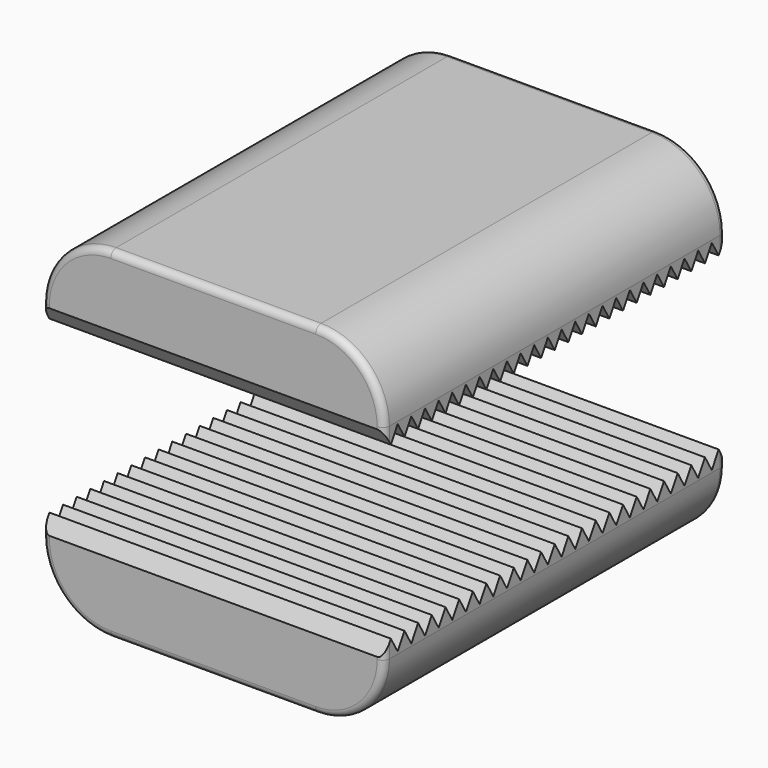
from build123d import *

# Parameters (mm, degrees)
F0_W     = 25.4
F0_H     = 6.35
F1_DEPTH = 15.875
F3_DEPTH = 12.7
F4_R     = 5.08
F5_R     = 0.508


with BuildPart() as f1:
    # F0 (on Front) → F1 (new body, symmetric)
    with BuildSketch(Plane.XZ):
        with Locations((0, -9.525)):
            Rectangle(F0_W, F0_H)
        with Locations((0, 9.525)):
            Rectangle(F0_W, F0_H)
    extrude(amount=F1_DEPTH, both=True)

    # F2 (on Right) → F3 (cut, symmetric)
    with BuildSketch(Plane.YZ):
        Polygon((-1.27, 6.35), (0, 6.35), (-0.635, 7.449852), align=None)
        Polygon((29.845, 7.449852), (29.21, 6.35), (30.48, 6.35), align=None)
        Polygon((28.575, 7.449852), (27.94, 6.35), (29.21, 6.35), align=None)
        Polygon((27.305, 7.449852), (26.67, 6.35), (27.94, 6.35), align=None)
        Polygon((26.035, 7.449852), (25.4, 6.35), (26.67, 6.35), align=None)
        Polygon((24.765, 7.449852), (24.13, 6.35), (25.4, 6.35), align=None)
        Polygon((23.495, 7.449852), (22.86, 6.35), (24.13, 6.35), align=None)
        Polygon((22.225, 7.449852), (21.59, 6.35), (22.86, 6.35), align=None)
        Polygon((20.955, 7.449852), (20.32, 6.35), (21.59, 6.35), align=None)
        Polygon((19.685, 7.449852), (19.05, 6.35), (20.32, 6.35), align=None)
        Polygon((18.415, 7.449852), (17.78, 6.35), (19.05, 6.35), align=None)
        Polygon((17.145, 7.449852), (16.51, 6.35), (17.78, 6.35), align=None)
        Polygon((15.875, 7.449852), (15.24, 6.35), (16.51, 6.35), align=None)
        Polygon((14.605, 7.449852), (13.97, 6.35), (15.24, 6.35), align=None)
        Polygon((13.335, 7.449852), (12.7, 6.35), (13.97, 6.35), align=None)
        Polygon((12.065, 7.449852), (11.43, 6.35), (12.7, 6.35), align=None)
        Polygon((10.795, 7.449852), (10.16, 6.35), (11.43, 6.35), align=None)
        Polygon((9.525, 7.449852), (8.89, 6.35), (10.16, 6.35), align=None)
        Polygon((8.255, 7.449852), (7.62, 6.35), (8.89, 6.35), align=None)
        Polygon((6.985, 7.449852), (6.35, 6.35), (7.62, 6.35), align=None)
        Polygon((5.715, 7.449852), (5.08, 6.35), (6.35, 6.35), align=None)
        Polygon((4.445, 7.449852), (3.81, 6.35), (5.08, 6.35), align=None)
        Polygon((3.175, 7.449852), (2.54, 6.35), (3.81, 6.35), align=None)
        Polygon((1.905, 7.449852), (1.27, 6.35), (2.54, 6.35), align=None)
        Polygon((-30.48, 6.35), (-29.21, 6.35), (-29.845, 7.449852), align=None)
        Polygon((-29.21, 6.35), (-27.94, 6.35), (-28.575, 7.449852), align=None)
        Polygon((-27.94, 6.35), (-26.67, 6.35), (-27.305, 7.449852), align=None)
        Polygon((-26.67, 6.35), (-25.4, 6.35), (-26.035, 7.449852), align=None)
        Polygon((-25.4, 6.35), (-24.13, 6.35), (-24.765, 7.449852), align=None)
        Polygon((-24.13, 6.35), (-22.86, 6.35), (-23.495, 7.449852), align=None)
        Polygon((-22.86, 6.35), (-21.59, 6.35), (-22.225, 7.449852), align=None)
        Polygon((-21.59, 6.35), (-20.32, 6.35), (-20.955, 7.449852), align=None)
        Polygon((-20.32, 6.35), (-19.05, 6.35), (-19.685, 7.449852), align=None)
        Polygon((-19.05, 6.35), (-17.78, 6.35), (-18.415, 7.449852), align=None)
        Polygon((-17.78, 6.35), (-16.51, 6.35), (-17.145, 7.449852), align=None)
        Polygon((-16.51, 6.35), (-15.24, 6.35), (-15.875, 7.449852), align=None)
        Polygon((-15.24, 6.35), (-13.97, 6.35), (-14.605, 7.449852), align=None)
        Polygon((-13.97, 6.35), (-12.7, 6.35), (-13.335, 7.449852), align=None)
        Polygon((-12.7, 6.35), (-11.43, 6.35), (-12.065, 7.449852), align=None)
        Polygon((-11.43, 6.35), (-10.16, 6.35), (-10.795, 7.449852), align=None)
        Polygon((-10.16, 6.35), (-8.89, 6.35), (-9.525, 7.449852), align=None)
        Polygon((-8.89, 6.35), (-7.62, 6.35), (-8.255, 7.449852), align=None)
        Polygon((-7.62, 6.35), (-6.35, 6.35), (-6.985, 7.449852), align=None)
        Polygon((-6.35, 6.35), (-5.08, 6.35), (-5.715, 7.449852), align=None)
        Polygon((-5.08, 6.35), (-3.81, 6.35), (-4.445, 7.449852), align=None)
        Polygon((-3.81, 6.35), (-2.54, 6.35), (-3.175, 7.449852), align=None)
        Polygon((-2.54, 6.35), (-1.27, 6.35), (-1.905, 7.449852), align=None)
        Polygon((0.635, 7.449852), (0, 6.35), (1.27, 6.35), align=None)
        Polygon((-65.024, -6.35), (-64.877353, -6.35), (-65.024, -6.096), align=None)
        Polygon((-64.516, -6.975882), (-64.154647, -6.35), (-64.877353, -6.35), align=None)
        Polygon((-63.5, -7.229882), (-62.992, -6.35), (-64.008, -6.35), align=None)
        Polygon((-62.484, -7.229882), (-61.976, -6.35), (-62.992, -6.35), align=None)
        Polygon((-61.468, -7.229882), (-60.96, -6.35), (-61.976, -6.35), align=None)
        Polygon((-60.452, -7.229882), (-59.944, -6.35), (-60.96, -6.35), align=None)
        Polygon((-59.436, -7.229882), (-58.928, -6.35), (-59.944, -6.35), align=None)
        Polygon((-58.42, -7.229882), (-57.912, -6.35), (-58.928, -6.35), align=None)
        Polygon((-57.404, -7.229882), (-56.896, -6.35), (-57.912, -6.35), align=None)
        Polygon((-56.388, -7.229882), (-55.88, -6.35), (-56.896, -6.35), align=None)
        Polygon((-55.372, -7.229882), (-54.864, -6.35), (-55.88, -6.35), align=None)
        Polygon((-54.356, -7.229882), (-53.848, -6.35), (-54.864, -6.35), align=None)
        Polygon((-53.34, -7.229882), (-52.832, -6.35), (-53.848, -6.35), align=None)
        Polygon((-52.324, -7.229882), (-51.816, -6.35), (-52.832, -6.35), align=None)
        Polygon((-51.308, -7.229882), (-50.8, -6.35), (-51.816, -6.35), align=None)
        Polygon((-50.292, -7.229882), (-49.784, -6.35), (-50.8, -6.35), align=None)
        Polygon((-49.276, -7.229882), (-48.768, -6.35), (-49.784, -6.35), align=None)
        Polygon((-48.26, -7.229882), (-47.752, -6.35), (-48.768, -6.35), align=None)
        Polygon((-47.244, -7.229882), (-46.736, -6.35), (-47.752, -6.35), align=None)
        Polygon((-46.228, -7.229882), (-45.72, -6.35), (-46.736, -6.35), align=None)
        Polygon((-45.212, -7.229882), (-44.704, -6.35), (-45.72, -6.35), align=None)
        Polygon((-44.196, -7.229882), (-43.688, -6.35), (-44.704, -6.35), align=None)
        Polygon((-43.18, -7.229882), (-42.672, -6.35), (-43.688, -6.35), align=None)
        Polygon((-42.164, -7.229882), (-41.656, -6.35), (-42.672, -6.35), align=None)
        Polygon((-41.148, -7.229882), (-40.64, -6.35), (-41.656, -6.35), align=None)
        Polygon((-40.132, -7.229882), (-39.624, -6.35), (-40.64, -6.35), align=None)
        Polygon((-39.116, -7.229882), (-38.608, -6.35), (-39.624, -6.35), align=None)
        Polygon((-38.1, -7.229882), (-37.592, -6.35), (-38.608, -6.35), align=None)
        Polygon((-36.068, -7.229882), (-35.56, -6.35), (-36.576, -6.35), align=None)
        Polygon((-30.988, -7.229882), (-30.48, -6.35), (-31.496, -6.35), align=None)
        Polygon((-29.845, -7.449852), (-29.21, -6.35), (-29.464, -6.35), (-29.972, -7.229882), align=None)
        Polygon((-28.575, -7.449852), (-27.94, -6.35), (-29.21, -6.35), align=None)
        Polygon((-27.305, -7.449852), (-26.67, -6.35), (-27.94, -6.35), align=None)
        Polygon((-26.035, -7.449852), (-25.4, -6.35), (-26.67, -6.35), align=None)
        Polygon((-24.765, -7.449852), (-24.13, -6.35), (-25.4, -6.35), align=None)
        Polygon((-23.495, -7.449852), (-22.86, -6.35), (-24.13, -6.35), align=None)
        Polygon((-22.225, -7.449852), (-21.59, -6.35), (-22.86, -6.35), align=None)
        Polygon((-20.955, -7.449852), (-20.32, -6.35), (-21.59, -6.35), align=None)
        Polygon((-19.685, -7.449852), (-19.05, -6.35), (-20.32, -6.35), align=None)
        Polygon((-18.415, -7.449852), (-17.78, -6.35), (-19.05, -6.35), align=None)
        Polygon((-17.145, -7.449852), (-16.51, -6.35), (-17.78, -6.35), align=None)
        Polygon((-15.875, -7.449852), (-15.24, -6.35), (-16.51, -6.35), align=None)
        Polygon((-14.605, -7.449852), (-13.97, -6.35), (-15.24, -6.35), align=None)
        Polygon((-13.335, -7.449852), (-12.7, -6.35), (-13.97, -6.35), align=None)
        Polygon((-12.065, -7.449852), (-11.43, -6.35), (-12.7, -6.35), align=None)
        Polygon((-10.795, -7.449852), (-10.16, -6.35), (-11.43, -6.35), align=None)
        Polygon((-9.525, -7.449852), (-8.89, -6.35), (-10.16, -6.35), align=None)
        Polygon((-8.255, -7.449852), (-7.62, -6.35), (-8.89, -6.35), align=None)
        Polygon((-6.985, -7.449852), (-6.35, -6.35), (-7.62, -6.35), align=None)
        Polygon((-5.715, -7.449852), (-5.08, -6.35), (-6.35, -6.35), align=None)
        Polygon((-4.445, -7.449852), (-3.81, -6.35), (-5.08, -6.35), align=None)
        Polygon((-3.175, -7.449852), (-2.54, -6.35), (-3.81, -6.35), align=None)
        Polygon((-1.905, -7.449852), (-1.27, -6.35), (-2.54, -6.35), align=None)
        Polygon((-0.635, -7.449852), (0, -6.35), (-1.27, -6.35), align=None)
        Polygon((0.635, -7.449852), (1.27, -6.35), (0, -6.35), align=None)
        Polygon((1.905, -7.449852), (2.54, -6.35), (1.27, -6.35), align=None)
        Polygon((3.175, -7.449852), (3.81, -6.35), (2.54, -6.35), align=None)
        Polygon((4.445, -7.449852), (5.08, -6.35), (3.81, -6.35), align=None)
        Polygon((5.715, -7.449852), (6.35, -6.35), (5.08, -6.35), align=None)
        Polygon((6.985, -7.449852), (7.62, -6.35), (6.35, -6.35), align=None)
        Polygon((8.255, -7.449852), (8.89, -6.35), (7.62, -6.35), align=None)
        Polygon((9.525, -7.449852), (10.16, -6.35), (8.89, -6.35), align=None)
        Polygon((10.795, -7.449852), (11.43, -6.35), (10.16, -6.35), align=None)
        Polygon((12.065, -7.449852), (12.7, -6.35), (11.43, -6.35), align=None)
        Polygon((13.335, -7.449852), (13.97, -6.35), (12.7, -6.35), align=None)
        Polygon((14.605, -7.449852), (15.24, -6.35), (13.97, -6.35), align=None)
        Polygon((15.875, -7.449852), (16.51, -6.35), (15.24, -6.35), align=None)
        Polygon((17.145, -7.449852), (17.78, -6.35), (16.51, -6.35), align=None)
        Polygon((18.415, -7.449852), (19.05, -6.35), (17.78, -6.35), align=None)
        Polygon((19.685, -7.449852), (20.32, -6.35), (19.05, -6.35), align=None)
        Polygon((20.955, -7.449852), (21.59, -6.35), (20.32, -6.35), align=None)
        Polygon((22.225, -7.449852), (22.86, -6.35), (21.59, -6.35), align=None)
        Polygon((23.495, -7.449852), (24.13, -6.35), (22.86, -6.35), align=None)
        Polygon((24.765, -7.449852), (25.4, -6.35), (24.13, -6.35), align=None)
        Polygon((26.035, -7.449852), (26.67, -6.35), (25.4, -6.35), align=None)
        Polygon((27.305, -7.449852), (27.94, -6.35), (26.67, -6.35), align=None)
        Polygon((28.575, -7.449852), (29.21, -6.35), (27.94, -6.35), align=None)
        Polygon((29.972, -7.229882), (30.48, -6.35), (29.464, -6.35), align=None)
        Polygon((35.052, -7.229882), (35.56, -6.35), (34.544, -6.35), align=None)
        Polygon((37.084, -7.229882), (37.592, -6.35), (36.83, -6.35), (36.703, -6.56997), align=None)
        Polygon((38.1, -7.229882), (38.608, -6.35), (37.592, -6.35), align=None)
        Polygon((64.008, -6.35), (62.992, -6.35), (63.5, -7.229882), align=None)
        Polygon((62.992, -6.35), (61.976, -6.35), (62.484, -7.229882), align=None)
        Polygon((61.976, -6.35), (60.96, -6.35), (61.468, -7.229882), align=None)
        Polygon((60.96, -6.35), (59.944, -6.35), (60.452, -7.229882), align=None)
        Polygon((59.944, -6.35), (58.928, -6.35), (59.436, -7.229882), align=None)
        Polygon((58.928, -6.35), (57.912, -6.35), (58.42, -7.229882), align=None)
        Polygon((57.912, -6.35), (56.896, -6.35), (57.404, -7.229882), align=None)
        Polygon((56.896, -6.35), (55.88, -6.35), (56.388, -7.229882), align=None)
        Polygon((55.88, -6.35), (54.864, -6.35), (55.372, -7.229882), align=None)
        Polygon((54.864, -6.35), (53.848, -6.35), (54.356, -7.229882), align=None)
        Polygon((53.848, -6.35), (52.832, -6.35), (53.34, -7.229882), align=None)
        Polygon((52.832, -6.35), (51.816, -6.35), (52.324, -7.229882), align=None)
        Polygon((51.816, -6.35), (50.8, -6.35), (51.308, -7.229882), align=None)
        Polygon((50.8, -6.35), (49.784, -6.35), (50.292, -7.229882), align=None)
        Polygon((49.784, -6.35), (48.768, -6.35), (49.276, -7.229882), align=None)
        Polygon((48.768, -6.35), (47.752, -6.35), (48.26, -7.229882), align=None)
        Polygon((47.752, -6.35), (46.736, -6.35), (47.244, -7.229882), align=None)
        Polygon((46.736, -6.35), (45.72, -6.35), (46.228, -7.229882), align=None)
        Polygon((45.72, -6.35), (44.704, -6.35), (45.212, -7.229882), align=None)
        Polygon((44.704, -6.35), (43.688, -6.35), (44.196, -7.229882), align=None)
        Polygon((43.688, -6.35), (42.672, -6.35), (43.18, -7.229882), align=None)
        Polygon((42.672, -6.35), (41.656, -6.35), (42.164, -7.229882), align=None)
        Polygon((41.656, -6.35), (40.64, -6.35), (41.148, -7.229882), align=None)
        Polygon((40.64, -6.35), (39.624, -6.35), (40.132, -7.229882), align=None)
        Polygon((38.608, -6.35), (39.116, -7.229882), (39.624, -6.35), align=None)
        Polygon((36.703, -6.56997), (36.83, -6.35), (36.576, -6.35), align=None)
        Polygon((36.195, -7.449852), (36.703, -6.56997), (36.576, -6.35), (36.068, -7.229882), align=None)
        Polygon((36.068, -7.229882), (36.576, -6.35), (35.56, -6.35), align=None)
        Polygon((34.925, -7.449852), (35.052, -7.229882), (34.544, -6.35), (34.417, -6.56997), align=None)
        Polygon((34.417, -6.56997), (34.544, -6.35), (34.29, -6.35), align=None)
        Polygon((34.036, -7.229882), (34.417, -6.56997), (34.29, -6.35), (33.909, -7.009911), align=None)
        Polygon((33.909, -7.009911), (34.29, -6.35), (33.528, -6.35), align=None)
        Polygon((33.655, -7.449852), (33.909, -7.009911), (33.528, -6.35), (33.274, -6.789941), align=None)
        Polygon((33.274, -6.789941), (33.528, -6.35), (33.02, -6.35), align=None)
        Polygon((33.02, -7.229882), (33.274, -6.789941), (33.02, -6.35), (32.766, -6.789941), align=None)
        Polygon((32.766, -6.789941), (33.02, -6.35), (32.512, -6.35), align=None)
        Polygon((32.385, -7.449852), (32.766, -6.789941), (32.512, -6.35), (32.131, -7.009911), align=None)
        Polygon((32.131, -7.009911), (32.512, -6.35), (31.75, -6.35), align=None)
        Polygon((32.004, -7.229882), (32.131, -7.009911), (31.75, -6.35), (31.623, -6.56997), align=None)
        Polygon((31.623, -6.56997), (31.75, -6.35), (31.496, -6.35), align=None)
        Polygon((31.115, -7.449852), (31.623, -6.56997), (31.496, -6.35), (30.988, -7.229882), align=None)
        Polygon((30.988, -7.229882), (31.496, -6.35), (30.48, -6.35), align=None)
        Polygon((29.845, -7.449852), (29.972, -7.229882), (29.464, -6.35), (29.21, -6.35), align=None)
        Polygon((-29.972, -7.229882), (-29.464, -6.35), (-30.48, -6.35), align=None)
        Polygon((-31.115, -7.449852), (-30.988, -7.229882), (-31.496, -6.35), (-31.623, -6.56997), align=None)
        Polygon((-31.623, -6.56997), (-31.496, -6.35), (-31.75, -6.35), align=None)
        Polygon((-32.004, -7.229882), (-31.623, -6.56997), (-31.75, -6.35), (-32.131, -7.009911), align=None)
        Polygon((-32.131, -7.009911), (-31.75, -6.35), (-32.512, -6.35), align=None)
        Polygon((-32.385, -7.449852), (-32.131, -7.009911), (-32.512, -6.35), (-32.766, -6.789941), align=None)
        Polygon((-32.766, -6.789941), (-32.512, -6.35), (-33.02, -6.35), align=None)
        Polygon((-33.02, -7.229882), (-32.766, -6.789941), (-33.02, -6.35), (-33.274, -6.789941), align=None)
        Polygon((-33.274, -6.789941), (-33.02, -6.35), (-33.528, -6.35), align=None)
        Polygon((-33.655, -7.449852), (-33.274, -6.789941), (-33.528, -6.35), (-33.909, -7.009911), align=None)
        Polygon((-33.909, -7.009911), (-33.528, -6.35), (-34.29, -6.35), align=None)
        Polygon((-34.036, -7.229882), (-33.909, -7.009911), (-34.29, -6.35), (-34.417, -6.56997), align=None)
        Polygon((-34.417, -6.56997), (-34.29, -6.35), (-34.544, -6.35), align=None)
        Polygon((-34.925, -7.449852), (-34.417, -6.56997), (-34.544, -6.35), (-35.052, -7.229882), align=None)
        Polygon((-35.052, -7.229882), (-34.544, -6.35), (-35.56, -6.35), align=None)
        Polygon((-36.195, -7.449852), (-36.068, -7.229882), (-36.576, -6.35), (-36.703, -6.56997), align=None)
        Polygon((-36.703, -6.56997), (-36.576, -6.35), (-36.83, -6.35), align=None)
        Polygon((-37.084, -7.229882), (-36.703, -6.56997), (-36.83, -6.35), (-37.592, -6.35), align=None)
    extrude(amount=F3_DEPTH, both=True, mode=Mode.SUBTRACT)

    # F4
    f4_edges = [f1.edges().sort_by_distance(p)[0] for p in [
        (12.7, 0, 12.7),
        (-12.7, 0, 12.7),
        (12.7, 0, -12.7),
        (-12.7, 0, -12.7),
    ]]
    fillet(f4_edges, radius=F4_R)

    # F5
    f5_edges = [f1.edges().sort_by_distance(p)[0] for p in [
        (0, -15.875, 12.7),
        (0, 15.875, 12.7),
        (0, -15.875, -12.7),
        (0, 15.875, -12.7),
    ]]
    fillet(f5_edges, radius=F5_R)


solid = f1.part
